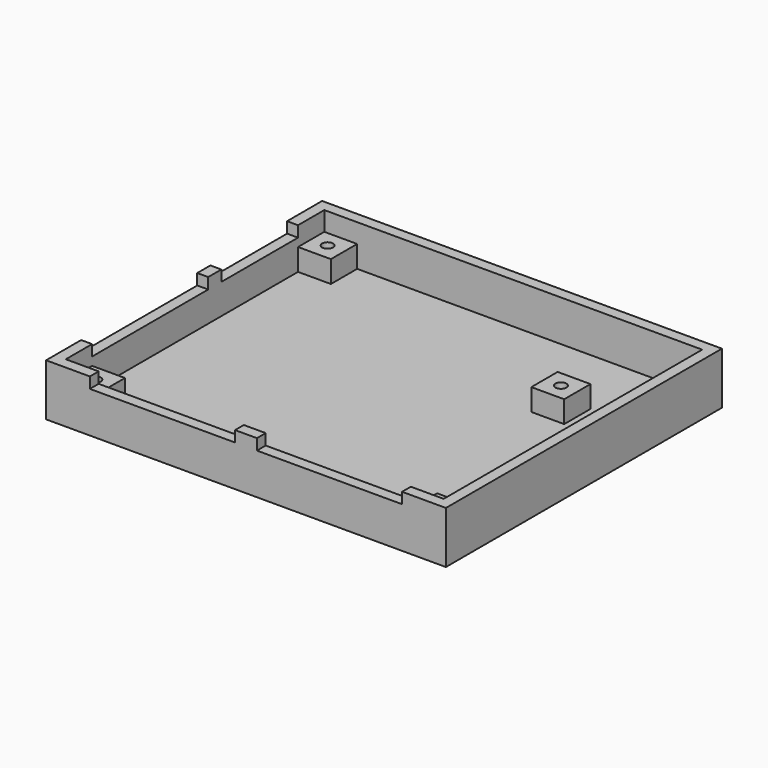
from build123d import *

# Parameters (mm, degrees)
F3_W      = 73
F3_H      = 63
F3_W_2    = 69
F3_H_2    = 59
F4_DEPTH  = 9.5
F5_DEPTH  = 2
F6_W      = 6
F6_H      = 6
F6_R      = 1
F7_DEPTH  = 4
F8_W      = 26.5
F8_H      = 2
F9_DEPTH  = 2
F10_W     = 26.5
F10_H     = 2
F10_W_2   = 17.5
F11_DEPTH = 2


with BuildPart() as f4:
    # F3 (on Top) → F4 (new body)
    with BuildSketch(Plane.XY):
        Rectangle(F3_W, F3_H)
        Rectangle(F3_W_2, F3_H_2, mode=Mode.SUBTRACT)
    extrude(amount=F4_DEPTH)

    # F3 (on Top) → F5 (join)
    with BuildSketch(Plane.XY):
        Rectangle(F3_W_2, F3_H_2)
    extrude(amount=F5_DEPTH)

    # F6 (on face) → F7 (join)
    with BuildSketch(Plane.XY.offset(2)):
        with Locations((21.5, 13.5)):
            Rectangle(F6_W, F6_H)
        with Locations((21.5, 13.5)):
            Circle(F6_R, mode=Mode.SUBTRACT)
        with Locations((31.5, -26.5)):
            Rectangle(F6_W, F6_H)
        with Locations((31.5, -26.5)):
            Circle(F6_R, mode=Mode.SUBTRACT)
        with Locations((-31.5, 26.5)):
            Rectangle(F6_W, F6_H)
        with Locations((-31.5, 26.5)):
            Circle(F6_R, mode=Mode.SUBTRACT)
        with Locations((-31.5, -26.5)):
            Rectangle(F6_W, F6_H)
        with Locations((-31.5, -26.5)):
            Circle(F6_R, mode=Mode.SUBTRACT)
    extrude(amount=F7_DEPTH)

    # F8 (on face) → F9 (cut, through all)
    with BuildSketch(Plane.XZ.offset(31.5)):
        with Locations((15.25, 8.5)):
            Rectangle(F8_W, F8_H)
        with Locations((-15.25, 8.5)):
            Rectangle(F8_W, F8_H)
    extrude(amount=-F9_DEPTH, mode=Mode.SUBTRACT)

    # F10 (on face) → F11 (cut, through all)
    with BuildSketch(Plane(origin=(-36.5, 0, 0), x_dir=(0, -1, 0), z_dir=(-1, 0, 0))):
        with Locations((10.25, 8.5)):
            Rectangle(F10_W, F10_H)
        with Locations((-14.75, 8.5)):
            Rectangle(F10_W_2, F10_H)
    extrude(amount=-F11_DEPTH, mode=Mode.SUBTRACT)


solid = f4.part
